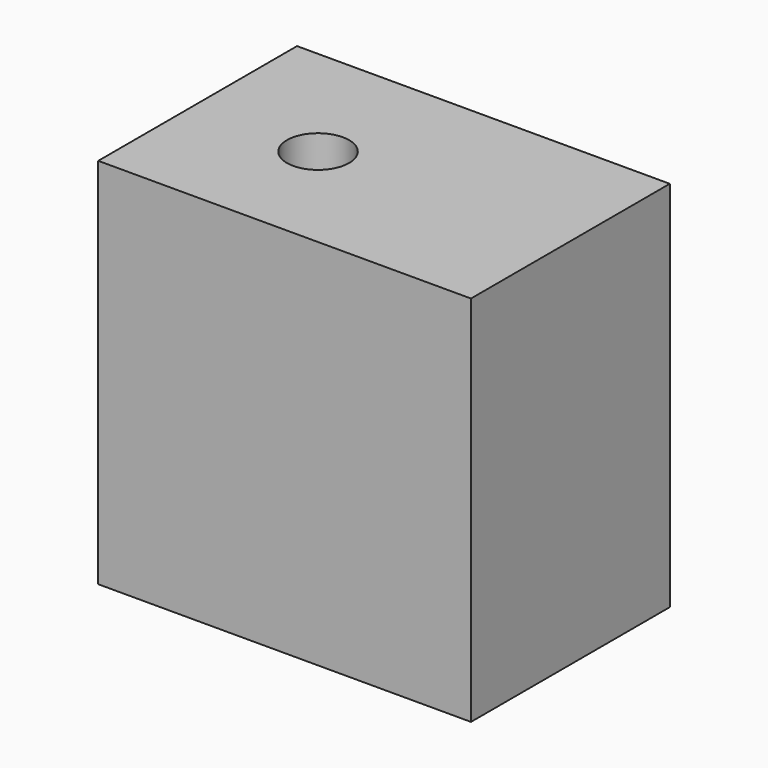
from build123d import *

# Parameters (mm, degrees)
F0_W          = 30
F0_H          = 20
F0_R          = 2.5
F1_DEPTH      = 20
F1_DEPTH_BACK = 10


with BuildPart() as f1:
    # F0 (on Top) → F1 (new body, two sides)
    with BuildSketch(Plane.XY) as f1_sk:
        with Locations((-5.71409, -16.938188)):
            Rectangle(F0_W, F0_H)
        with Locations((-10.71409, -17.323306)):
            Circle(F0_R, mode=Mode.SUBTRACT)
    extrude(amount=F1_DEPTH)
    extrude(f1_sk.sketch, amount=-F1_DEPTH_BACK)


solid = f1.part
